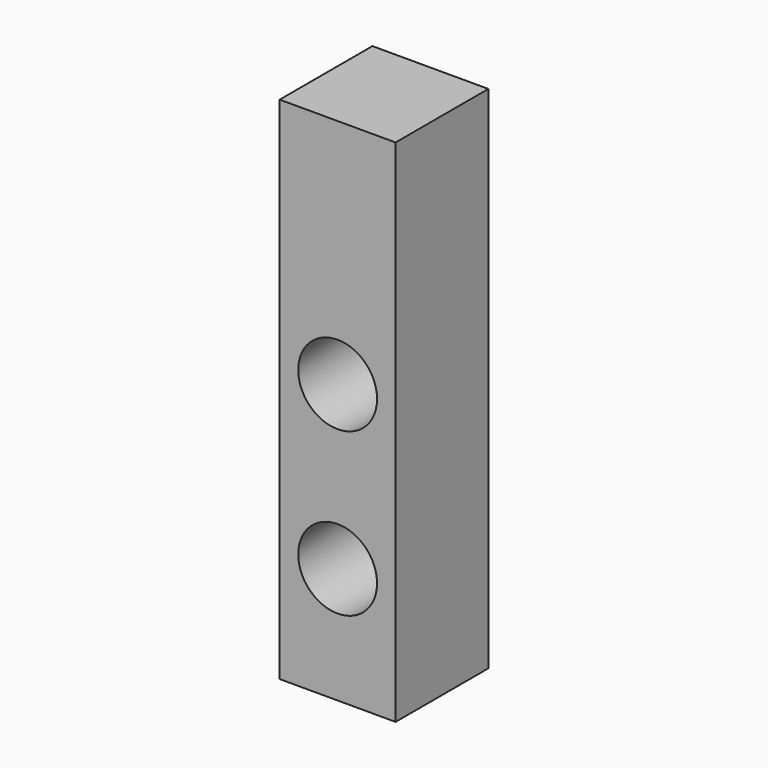
from build123d import *

# Parameters (mm, degrees)
SKETCH_W  = 25
SKETCH_H  = 110
SKETCH_R  = 8.5
PAD_DEPTH = 25


with BuildPart() as part:
    # Sketch → Pad (new body)
    with BuildSketch(Plane.XZ):
        Rectangle(SKETCH_W, SKETCH_H)
        with Locations((0, -30)):
            Circle(SKETCH_R, mode=Mode.SUBTRACT)
        with Locations((0, 5)):
            Circle(SKETCH_R, mode=Mode.SUBTRACT)
    extrude(amount=PAD_DEPTH)


solid = part.part
